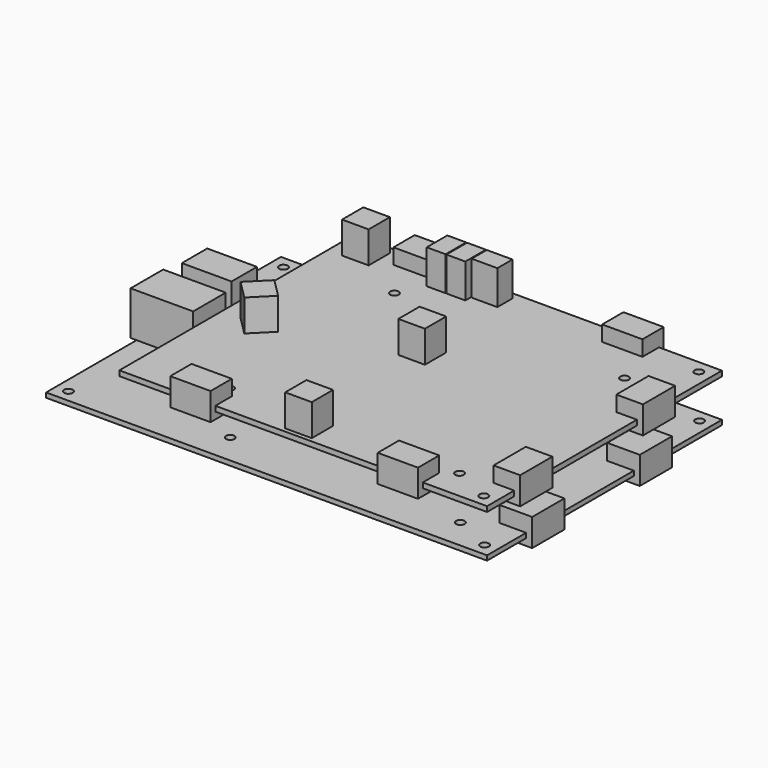
from build123d import *

# Parameters (mm, degrees)
SKETCH_W      = 130.683
SKETCH_H      = 86.995
SKETCH_R      = 1.27
PAD_DEPTH     = 1.397
SKETCH001_W   = 9.652
SKETCH001_H   = 11.938
PAD001_DEPTH  = 4.699
PAD002_DEPTH  = 3.429
SKETCH002_W   = 7.874
SKETCH002_H   = 7.874
PAD003_DEPTH  = 9.398
SKETCH003_W   = 14.732
SKETCH003_H   = 9.398
PAD004_DEPTH  = 11.176
SKETCH004_W   = 18.542
SKETCH004_H   = 12.065
PAD005_DEPTH  = 12.954
SKETCH005_W   = 108.966
SKETCH005_H   = 86.995
SKETCH005_R   = 1.27
PAD006_DEPTH  = 1.524
SKETCH006_W   = 11.938
SKETCH006_H   = 7.874
SKETCH006_W_2 = 7.874
SKETCH006_H_2 = 11.938
PAD007_DEPTH  = 4.572
PAD008_DEPTH  = 3.556
SKETCH007_W   = 7.874
SKETCH007_H   = 7.874
PAD009_DEPTH  = 9.398
SKETCH008_W   = 5.588
SKETCH008_H   = 7.62
SKETCH008_W_2 = 7.62
SKETCH008_H_2 = 5.588
PAD010_DEPTH  = 10.16


with BuildPart() as referencebody_x40:
    # Sketch → Pad (new body)
    with BuildSketch(Plane.XY):
        with Locations((65.3415, 43.4975)):
            Rectangle(SKETCH_W, SKETCH_H)
        with Locations((3.683, 83.312)):
            Circle(SKETCH_R, mode=Mode.SUBTRACT)
        with Locations((127, 83.312)):
            Circle(SKETCH_R, mode=Mode.SUBTRACT)
        with Locations((3.683, 3.683)):
            Circle(SKETCH_R, mode=Mode.SUBTRACT)
        with Locations((127, 3.683)):
            Circle(SKETCH_R, mode=Mode.SUBTRACT)
        with Locations((115.57, 9.017)):
            Circle(SKETCH_R, mode=Mode.SUBTRACT)
        with Locations((115.57, 70.104)):
            Circle(SKETCH_R, mode=Mode.SUBTRACT)
        with Locations((47.371, 70.104)):
            Circle(SKETCH_R, mode=Mode.SUBTRACT)
        with Locations((47.371, 9.017)):
            Circle(SKETCH_R, mode=Mode.SUBTRACT)
    extrude(amount=PAD_DEPTH)

    # Sketch001 (on Face14 of Pad) → Pad001 (join)
    with BuildSketch(Plane.XY.offset(1.397)):
        with Locations((127.635, 60.325)):
            Rectangle(SKETCH001_W, SKETCH001_H)
        with Locations((127.635, 20.447)):
            Rectangle(SKETCH001_W, SKETCH001_H)
    extrude(amount=PAD001_DEPTH)

    # Sketch001 (on Face14 of Pad) → Pad002 (join)
    with BuildSketch(Plane.XY.offset(1.397)):
        with Locations((127.635, 60.325)):
            Rectangle(SKETCH001_W, SKETCH001_H)
        with Locations((127.635, 20.447)):
            Rectangle(SKETCH001_W, SKETCH001_H)
    extrude(amount=-PAD002_DEPTH)

    # Sketch002 (on Face5 of Pad002) → Pad003 (join)
    with BuildSketch(Plane.XY.offset(1.397)):
        with Locations((91.186, 79.756)):
            Rectangle(SKETCH002_W, SKETCH002_H)
    extrude(amount=PAD003_DEPTH)

    # Sketch003 (on Face5 of Pad003) → Pad004 (join)
    with BuildSketch(Plane.XY.offset(1.397)):
        with Locations((4.826, 58.166)):
            Rectangle(SKETCH003_W, SKETCH003_H)
    extrude(amount=PAD004_DEPTH)

    # Sketch004 (on Face5 of Pad004) → Pad005 (join)
    with BuildSketch(Plane.XY.offset(1.397)):
        with Locations((7.493, 39.5605)):
            Rectangle(SKETCH004_W, SKETCH004_H)
    extrude(amount=PAD005_DEPTH)


with BuildPart() as obj1:
    # Sketch005 → Pad006 (new body)
    with BuildSketch(Plane.XY):
        with Locations((76.2, 43.4975)):
            Rectangle(SKETCH005_W, SKETCH005_H)
        with Locations((115.443, 8.89)):
            Circle(SKETCH005_R, mode=Mode.SUBTRACT)
        with Locations((115.443, 69.977)):
            Circle(SKETCH005_R, mode=Mode.SUBTRACT)
        with Locations((47.244, 69.977)):
            Circle(SKETCH005_R, mode=Mode.SUBTRACT)
        with Locations((47.244, 8.89)):
            Circle(SKETCH005_R, mode=Mode.SUBTRACT)
        with Locations((126.873, 83.185)):
            Circle(SKETCH005_R, mode=Mode.SUBTRACT)
        with Locations((126.873, 3.556)):
            Circle(SKETCH005_R, mode=Mode.SUBTRACT)
    extrude(amount=PAD006_DEPTH)

    # Sketch006 (on Face12 of Pad006) → Pad007 (join)
    with BuildSketch(Plane.XY.offset(1.524)):
        with Locations((44.196, 84.836)):
            Rectangle(SKETCH006_W, SKETCH006_H)
        with Locations((106.045, 84.836)):
            Rectangle(SKETCH006_W, SKETCH006_H)
        with Locations((128.524, 61.468)):
            Rectangle(SKETCH006_W_2, SKETCH006_H_2)
        with Locations((128.524, 16.002)):
            Rectangle(SKETCH006_W_2, SKETCH006_H_2)
        with Locations((105.664, 2.159)):
            Rectangle(SKETCH006_W, SKETCH006_H)
        with Locations((44.196, 2.159)):
            Rectangle(SKETCH006_W, SKETCH006_H)
    extrude(amount=PAD007_DEPTH)

    # Sketch006 (on Face12 of Pad006) → Pad008 (join)
    with BuildSketch(Plane.XY.offset(1.524)):
        with Locations((44.196, 84.836)):
            Rectangle(SKETCH006_W, SKETCH006_H)
        with Locations((106.045, 84.836)):
            Rectangle(SKETCH006_W, SKETCH006_H)
        with Locations((128.524, 61.468)):
            Rectangle(SKETCH006_W_2, SKETCH006_H_2)
        with Locations((128.524, 16.002)):
            Rectangle(SKETCH006_W_2, SKETCH006_H_2)
        with Locations((105.664, 2.159)):
            Rectangle(SKETCH006_W, SKETCH006_H)
        with Locations((44.196, 2.159)):
            Rectangle(SKETCH006_W, SKETCH006_H)
    extrude(amount=-PAD008_DEPTH)

    # Sketch007 (on Face5 of Pad008) → Pad009 (join)
    with BuildSketch(Plane.XY.offset(1.524)):
        with Locations((29.972, 81.026)):
            Rectangle(SKETCH007_W, SKETCH007_H)
        with Locations((71.247, 50.292)):
            Rectangle(SKETCH007_W, SKETCH007_H)
        with Locations((73.787, 5.207)):
            Rectangle(SKETCH007_W, SKETCH007_H)
        Polygon((27.198241, 38.028959), (32.766, 32.4612), (38.333759, 38.028959), (32.766, 43.596718), align=None)
    extrude(amount=PAD009_DEPTH)

    # Sketch008 (on Face5 of Pad009) → Pad010 (join)
    with BuildSketch(Plane.XY.offset(1.524)):
        with Locations((53.721, 81.153)):
            Rectangle(SKETCH008_W, SKETCH008_H)
        with Locations((59.563, 81.153)):
            Rectangle(SKETCH008_W, SKETCH008_H)
        with Locations((66.421, 82.169)):
            Rectangle(SKETCH008_W_2, SKETCH008_H_2)
    extrude(amount=PAD010_DEPTH)


with BuildPart() as obj1_1:
    # Body001 placement: moved
    add(obj1.part.moved(Location((0, 0, 12.7))))


solid = Compound([referencebody_x40.part, obj1_1.part])
